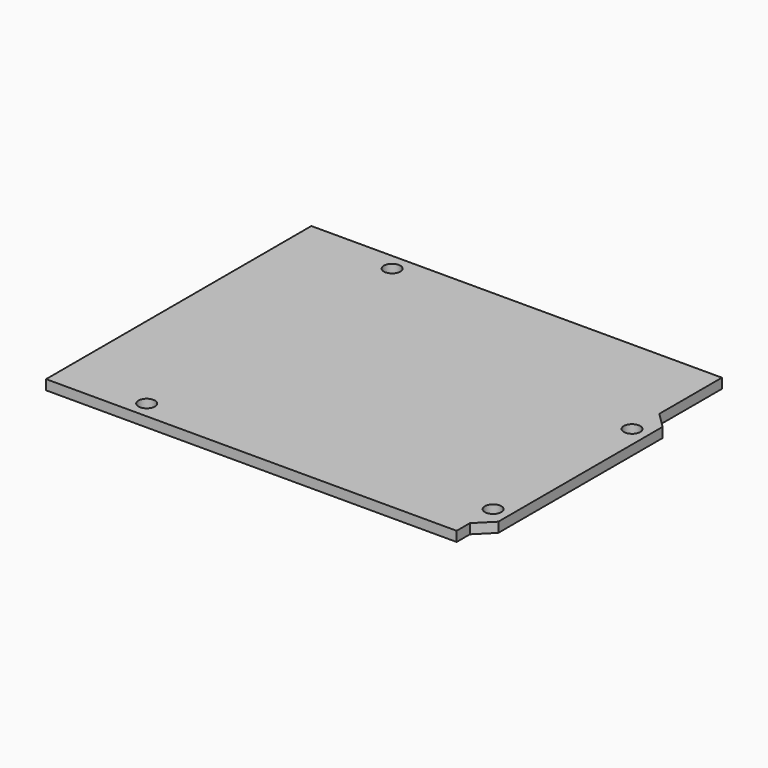
from build123d import *

# Parameters (mm, degrees)
F1_DEPTH = 1.588
F2_R     = 1.3175
F3_DEPTH = 1.589


with BuildPart() as f1:
    # F0 (on Top) → F1 (new body)
    with BuildSketch(Plane.XY):
        Polygon((-33.02, 26.67), (-33.02, -26.67), (33.02, -26.67), (33.02, -24.003), (33.02, 14.097), (33.02, 26.67), align=None)
        Polygon((33.02, 14.097), (33.02, -24.003), (35.56, -21.463), (35.56, 11.557), align=None)
    extrude(amount=F1_DEPTH)

    # F2 (on face) → F3 (cut, through all)
    with BuildSketch(Plane.XY.offset(1.588)):
        with Locations((32.925, -19.209)):
            Circle(F2_R)
        with Locations((32.925, 8.719)):
            Circle(F2_R)
        with Locations((-19.006, -23.959)):
            Circle(F2_R)
        with Locations((-17.863, 23.959)):
            Circle(F2_R)
    extrude(amount=-F3_DEPTH, mode=Mode.SUBTRACT)


solid = f1.part
